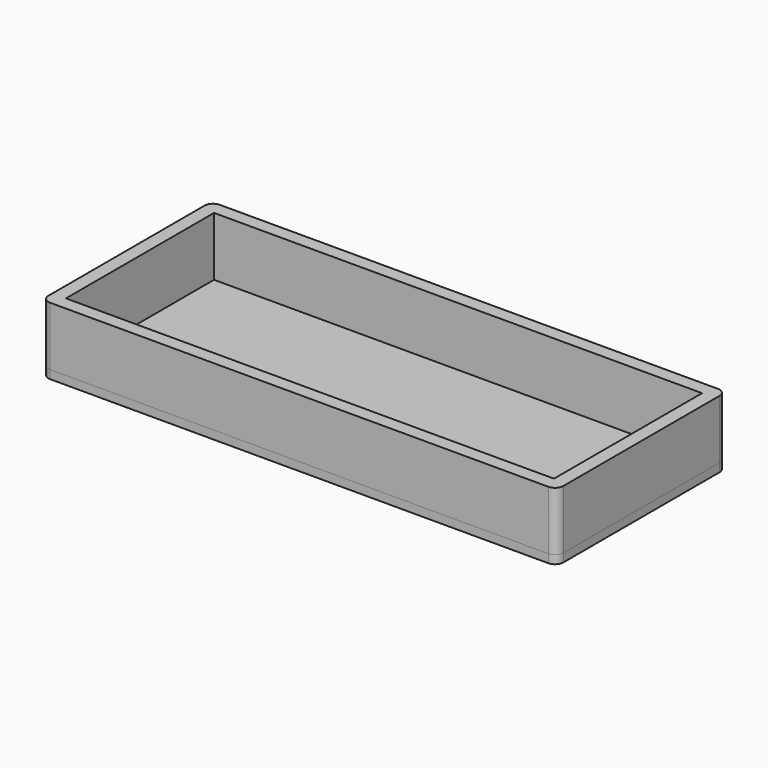
from build123d import *

# Parameters (mm, degrees)
F0_W     = 2
F0_H     = 18.0155
F1_DEPTH = 5
F2_DEPTH = 35


with BuildPart() as f1:
    # F0 (on Top) → F1 (new body)
    with BuildSketch(Plane.XY):
        with BuildLine():
            ThreePointArc((164.6474879093, 56.7670862941), (163.1830218152, 60.3026202), (159.6474879093, 61.7670862941))
            Line((159.6474879093, 61.7670862941), (-136.3525120907, 61.7670862941))
            ThreePointArc((-136.3525120907, 61.7670862941), (-139.8880459967, 60.3026202), (-141.3525120907, 56.7670862941))
            Line((-141.3525120907, 56.7670862941), (-141.3525120907, -59.2329137059))
            ThreePointArc((-141.3525120907, -59.2329137059), (-139.8880459967, -62.7684476119), (-136.3525120907, -64.2329137059))
            Line((-136.3525120907, -64.2329137059), (159.6474879093, -64.2329137059))
            ThreePointArc((159.6474879093, -64.2329137059), (163.1830218152, -62.7684476119), (164.6474879093, -59.2329137059))
            Line((164.6474879093, -59.2329137059), (164.6474879093, 56.7670862941))
        make_face()
        Polygon((-93.3215120907, 53.7670862941), (156.6474879093, 53.7670862941), (156.6474879093, -56.2329137059), (-133.3525120907, -56.2329137059), (-133.3525120907, 13.7360862941), (-133.3525120907, 53.7670862941), align=None, mode=Mode.SUBTRACT)
        Polygon((-93.3215120907, 51.7670862941), (-93.3215120907, 53.7670862941), (-133.3525120907, 53.7670862941), (-133.3525120907, 13.7360862941), (-131.3525120907, 13.7360862941), (-131.3525120907, 15.7360862941), (-131.3525120907, 51.7670862941), (-95.3215120907, 51.7670862941), align=None)
        Polygon((-93.3215120907, 13.7360862941), (-93.3215120907, 33.7515862941), (-95.3215120907, 33.7515862941), (-95.3215120907, 15.7360862941), (-131.3525120907, 15.7360862941), (-131.3525120907, 13.7360862941), align=None)
        with Locations((-94.3215120907, 42.7593362941)):
            Rectangle(F0_W, F0_H)
        Polygon((-95.3215120907, 33.7515862941), (-95.3215120907, 51.7670862941), (-131.3525120907, 51.7670862941), (-131.3525120907, 15.7360862941), (-95.3215120907, 15.7360862941), align=None)
        Polygon((154.6474879093, 51.7670862941), (-93.3215120907, 51.7670862941), (-93.3215120907, 33.7515862941), (-93.3215120907, 13.7360862941), (-131.3525120907, 13.7360862941), (-131.3525120907, -54.2329137059), (154.6474879093, -54.2329137059), align=None)
        Polygon((156.6474879093, -56.2329137059), (156.6474879093, 53.7670862941), (-93.3215120907, 53.7670862941), (-93.3215120907, 51.7670862941), (154.6474879093, 51.7670862941), (154.6474879093, -54.2329137059), (-131.3525120907, -54.2329137059), (-131.3525120907, 13.7360862941), (-133.3525120907, 13.7360862941), (-133.3525120907, -56.2329137059), align=None)
    extrude(amount=-F1_DEPTH)


with BuildPart() as f2:
    # F0 (on Top) → F2 (new body)
    with BuildSketch(Plane.XY):
        with BuildLine():
            ThreePointArc((164.6474879093, 56.7670862941), (163.1830218152, 60.3026202), (159.6474879093, 61.7670862941))
            Line((159.6474879093, 61.7670862941), (-136.3525120907, 61.7670862941))
            ThreePointArc((-136.3525120907, 61.7670862941), (-139.8880459967, 60.3026202), (-141.3525120907, 56.7670862941))
            Line((-141.3525120907, 56.7670862941), (-141.3525120907, -59.2329137059))
            ThreePointArc((-141.3525120907, -59.2329137059), (-139.8880459967, -62.7684476119), (-136.3525120907, -64.2329137059))
            Line((-136.3525120907, -64.2329137059), (159.6474879093, -64.2329137059))
            ThreePointArc((159.6474879093, -64.2329137059), (163.1830218152, -62.7684476119), (164.6474879093, -59.2329137059))
            Line((164.6474879093, -59.2329137059), (164.6474879093, 56.7670862941))
        make_face()
        Polygon((-93.3215120907, 53.7670862941), (156.6474879093, 53.7670862941), (156.6474879093, -56.2329137059), (-133.3525120907, -56.2329137059), (-133.3525120907, 13.7360862941), (-133.3525120907, 53.7670862941), align=None, mode=Mode.SUBTRACT)
    extrude(amount=F2_DEPTH)


solid = Compound([f1.part, f2.part])
